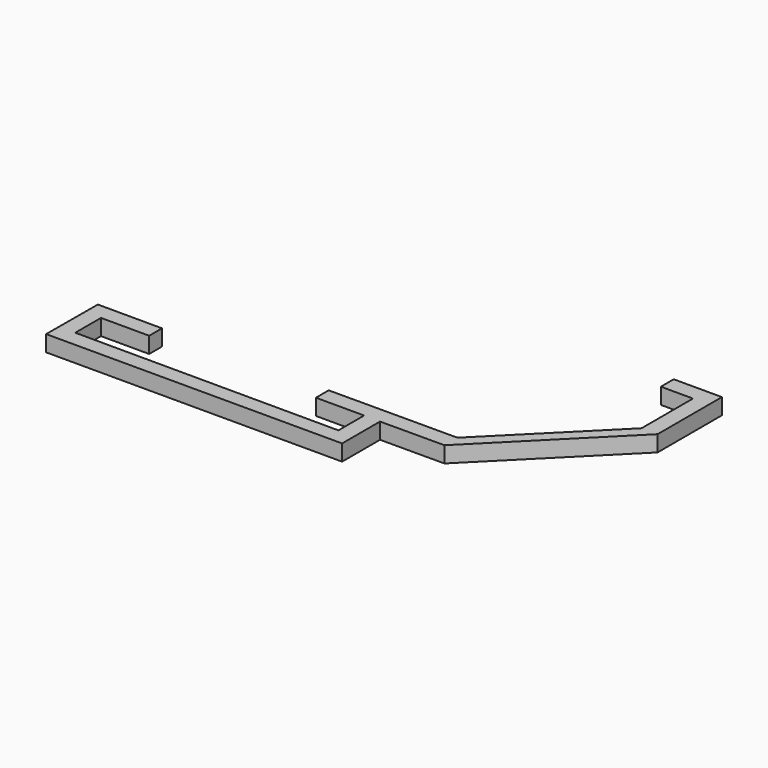
from build123d import *

# Parameters (mm, degrees)
F1_DEPTH = 5


with BuildPart() as f1:
    # F0 (on Top) → F1 (new body)
    with BuildSketch(Plane.XY):
        Polygon((43.460977, 32.790962), (53.460977, 32.790962), (53.460977, 12.790962), (21.641172, -19.028844), (-18.34854, -19.109576), (-18.34854, -24.079463), (-3.34854, -24.079463), (-3.34854, -34.079463), (-85.348349, -33.902498), (-85.326768, -23.902521), (-70.326803, -23.934893), (-70.326803, -18.934893), (-90.326756, -18.891731), (-90.430838, -38.89146), (1.65146, -38.89146), (1.65146, -24.145072), (21.651419, -24.104696), (58.460977, 12.790962), (58.460977, 37.790962), (43.460977, 37.790962), align=None)
    extrude(amount=F1_DEPTH)


solid = f1.part
